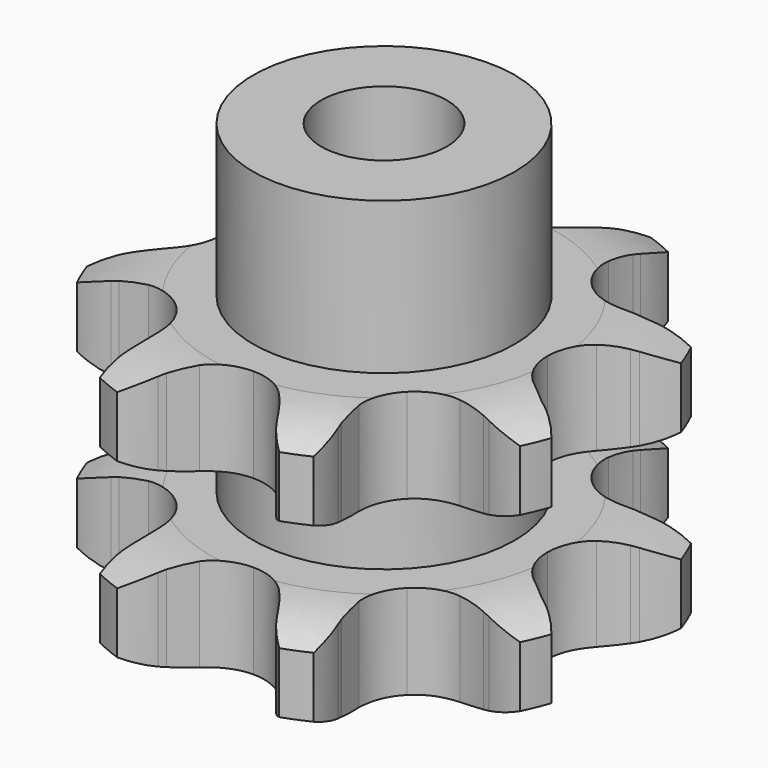
from build123d import *

# Parameters (mm, degrees)
PAD_DEPTH         = 25.5
SKETCH001_R       = 12.5
PAD001_DEPTH      = 40
SKETCH002_R       = 6
POCKET_DEPTH      = 0.001
POCKET_DEPTH_BACK = -40.001


with BuildPart() as part:
    # Sprocket → Pad (new body)
    with BuildSketch(Plane.XY):
        with BuildLine():
            ThreePointArc((-9.665725, 23.335123), (-7.403334, 21.91236), (-5.675507, 19.873419))
            Line((-5.675507, 19.873419), (-5.323224, 19.298545))
            ThreePointArc((-5.323224, 19.298545), (-4.606501, 18.245896), (-3.792186, 17.266789))
            ThreePointArc((-3.792186, 17.266789), (-2.071528, 16.033782), (0, 15.598187))
            ThreePointArc((0, 15.598187), (2.071528, 16.033782), (3.792186, 17.266789))
            ThreePointArc((3.792186, 17.266789), (4.606501, 18.245896), (5.323224, 19.298545))
            Line((5.323224, 19.298545), (5.675507, 19.873419))
            ThreePointArc((5.675507, 19.873419), (7.403334, 21.91236), (9.665725, 23.335123))
            ThreePointArc((9.665725, 23.335123), (10.259431, 20.729326), (10.03944, 18.065819))
            Line((10.03944, 18.065819), (9.882044, 17.410219))
            ThreePointArc((9.882044, 17.410219), (9.644509, 16.159085), (9.527983, 14.890944))
            ThreePointArc((9.527983, 14.890944), (9.872805, 12.802388), (11.029584, 11.029584))
            ThreePointArc((11.029584, 11.029584), (12.802388, 9.872805), (14.890944, 9.527983))
            Line((14.890944, 9.527983), (17.410219, 9.882044))
            ThreePointArc((17.410219, 9.882044), (17.737019, 9.964906), (18.065819, 10.03944))
            ThreePointArc((18.065819, 10.03944), (20.729326, 10.259431), (23.335123, 9.665725))
            ThreePointArc((23.335123, 9.665725), (21.91236, 7.403334), (19.873419, 5.675507))
            Line((19.873419, 5.675507), (19.298545, 5.323224))
            ThreePointArc((19.298545, 5.323224), (18.245896, 4.606501), (17.266789, 3.792186))
            ThreePointArc((17.266789, 3.792186), (16.033782, 2.071528), (15.598187, 0))
            ThreePointArc((15.598187, 0), (16.033782, -2.071528), (17.266789, -3.792186))
            Line((17.266789, -3.792186), (19.298545, -5.323224))
            ThreePointArc((19.298545, -5.323224), (19.588219, -5.495714), (19.873419, -5.675507))
            ThreePointArc((19.873419, -5.675507), (21.91236, -7.403334), (23.335123, -9.665725))
            ThreePointArc((23.335123, -9.665725), (20.729326, -10.259431), (18.065819, -10.03944))
            Line((18.065819, -10.03944), (17.410219, -9.882044))
            ThreePointArc((17.410219, -9.882044), (16.159085, -9.644509), (14.890944, -9.527983))
            ThreePointArc((14.890944, -9.527983), (12.802388, -9.872805), (11.029584, -11.029584))
            ThreePointArc((11.029584, -11.029584), (9.872805, -12.802388), (9.527983, -14.890944))
            Line((9.527983, -14.890944), (9.882044, -17.410219))
            ThreePointArc((9.882044, -17.410219), (9.964906, -17.737019), (10.03944, -18.065819))
            ThreePointArc((10.03944, -18.065819), (10.259431, -20.729326), (9.665725, -23.335123))
            ThreePointArc((9.665725, -23.335123), (7.403334, -21.91236), (5.675507, -19.873419))
            Line((5.675507, -19.873419), (5.323224, -19.298545))
            ThreePointArc((5.323224, -19.298545), (4.606501, -18.245896), (3.792186, -17.266789))
            ThreePointArc((3.792186, -17.266789), (2.071528, -16.033782), (0, -15.598187))
            ThreePointArc((0, -15.598187), (-2.071528, -16.033782), (-3.792186, -17.266789))
            Line((-3.792186, -17.266789), (-5.323224, -19.298545))
            ThreePointArc((-5.323224, -19.298545), (-5.495714, -19.588219), (-5.675507, -19.873419))
            ThreePointArc((-5.675507, -19.873419), (-7.403334, -21.91236), (-9.665725, -23.335123))
            ThreePointArc((-9.665725, -23.335123), (-10.259431, -20.729326), (-10.03944, -18.065819))
            Line((-10.03944, -18.065819), (-9.882044, -17.410219))
            ThreePointArc((-9.882044, -17.410219), (-9.644509, -16.159085), (-9.527983, -14.890944))
            ThreePointArc((-9.527983, -14.890944), (-9.872805, -12.802388), (-11.029584, -11.029584))
            ThreePointArc((-11.029584, -11.029584), (-12.802388, -9.872805), (-14.890944, -9.527983))
            Line((-14.890944, -9.527983), (-17.410219, -9.882044))
            ThreePointArc((-17.410219, -9.882044), (-17.737019, -9.964906), (-18.065819, -10.03944))
            ThreePointArc((-18.065819, -10.03944), (-20.729326, -10.259431), (-23.335123, -9.665725))
            ThreePointArc((-23.335123, -9.665725), (-21.91236, -7.403334), (-19.873419, -5.675507))
            Line((-19.873419, -5.675507), (-19.298545, -5.323224))
            ThreePointArc((-19.298545, -5.323224), (-18.245896, -4.606501), (-17.266789, -3.792186))
            ThreePointArc((-17.266789, -3.792186), (-16.033782, -2.071528), (-15.598187, 0))
            ThreePointArc((-15.598187, 0), (-16.033782, 2.071528), (-17.266789, 3.792186))
            Line((-17.266789, 3.792186), (-19.298545, 5.323224))
            ThreePointArc((-19.298545, 5.323224), (-19.588219, 5.495714), (-19.873419, 5.675507))
            ThreePointArc((-19.873419, 5.675507), (-21.91236, 7.403334), (-23.335123, 9.665725))
            ThreePointArc((-23.335123, 9.665725), (-20.729326, 10.259431), (-18.065819, 10.03944))
            Line((-18.065819, 10.03944), (-17.410219, 9.882044))
            ThreePointArc((-17.410219, 9.882044), (-16.159085, 9.644509), (-14.890944, 9.527983))
            ThreePointArc((-14.890944, 9.527983), (-12.802388, 9.872805), (-11.029584, 11.029584))
            ThreePointArc((-11.029584, 11.029584), (-9.872805, 12.802388), (-9.527983, 14.890944))
            Line((-9.527983, 14.890944), (-9.882044, 17.410219))
            ThreePointArc((-9.882044, 17.410219), (-9.964906, 17.737019), (-10.03944, 18.065819))
            ThreePointArc((-10.03944, 18.065819), (-10.259431, 20.729326), (-9.665725, 23.335123))
        make_face()
    extrude(amount=PAD_DEPTH)

    # Sketch → Groove (revolve, cut)
    with BuildSketch(Plane.XZ):
        with BuildLine():
            ThreePointArc((16.525762, 0), (20.10347, 0.405129), (23.5, 1.6))
            Line((23.5, 1.6), (23.5, 7.4))
            ThreePointArc((23.5, 7.4), (20.10347, 8.594871), (16.525762, 9))
            Line((12.5, 9), (16.525762, 9))
            Line((12.5, 16.5), (12.5, 9))
            Line((16.525762, 16.5), (12.5, 16.5))
            ThreePointArc((16.525762, 16.5), (20.10347, 16.905129), (23.5, 18.1))
            Line((23.5, 18.1), (23.5, 23.9))
            ThreePointArc((23.5, 23.9), (20.10347, 25.094871), (16.525762, 25.5))
            Line((16.525762, 25.5), (26.525762, 25.5))
            Line((26.525762, 25.5), (26.525762, 0))
            Line((16.525762, 0), (26.525762, 0))
        make_face()
    revolve(axis=Axis((0, 0, 0), (0, 0, 1)), mode=Mode.SUBTRACT)

    # Sketch001 → Pad001 (join)
    with BuildSketch(Plane.XY):
        Circle(SKETCH001_R)
    extrude(amount=PAD001_DEPTH)

    # Sketch002 → Pocket (cut, two sides)
    with BuildSketch(Plane.XY) as pocket_sk:
        Circle(SKETCH002_R)
    extrude(amount=-POCKET_DEPTH, mode=Mode.SUBTRACT)
    extrude(pocket_sk.sketch, amount=-POCKET_DEPTH_BACK, mode=Mode.SUBTRACT)


solid = part.part
